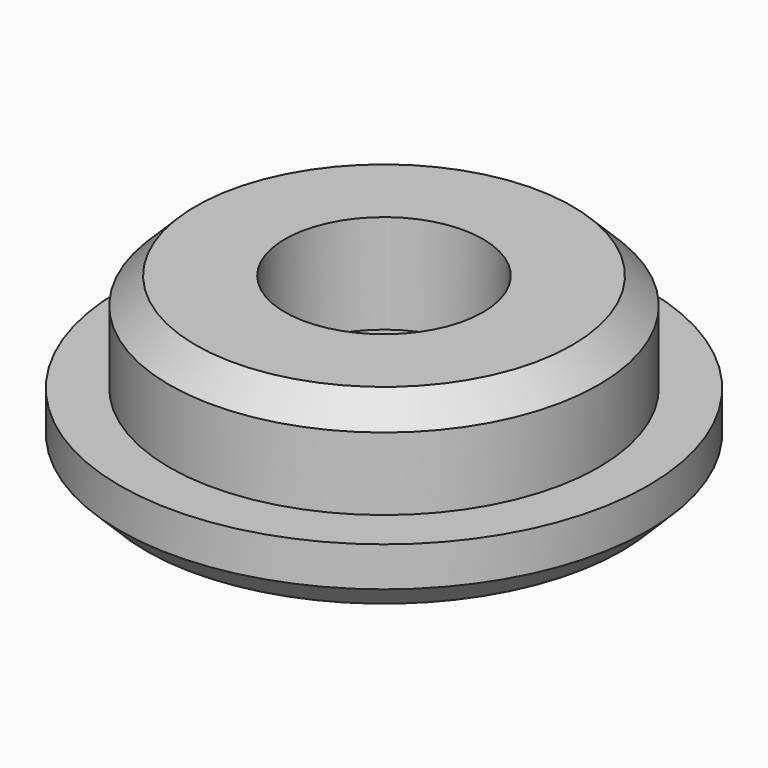
from build123d import *

# Parameters (mm, degrees)
F2_SIZE2 = 2.54
F2_SIZE  = 2.54


with BuildPart() as f1:
    # F0 (on Front) → F1 (revolve)
    with BuildSketch(Plane.XZ):
        Polygon((4.7625, 0), (25.4, 0), (25.4, 6.35), (20.6375, 6.35), (20.6375, 15.875), (9.525, 15.875), (9.525, 6.35), (4.7625, 6.35), align=None)
    revolve(axis=Axis((0, 0, 16.889236), (0, 0, 1)))

    # F2
    f2_edges = [f1.edges().sort_by_distance(p)[0] for p in [
        (-20.6375, 0, 15.875),
        (-25.4, 0, 0),
    ]]
    chamfer(f2_edges, length=F2_SIZE, length2=F2_SIZE2)


solid = f1.part
